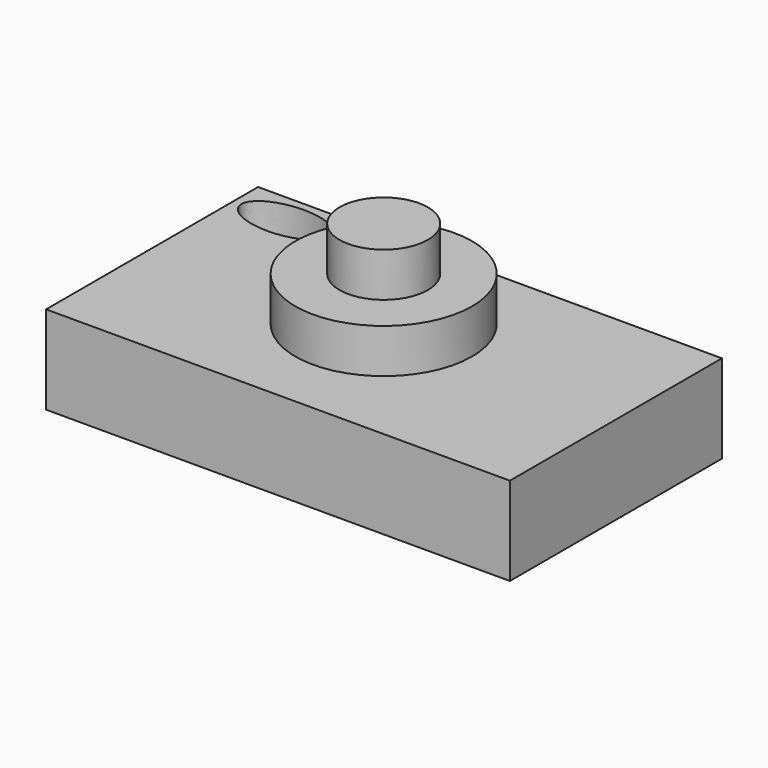
from build123d import *

# Parameters (mm, degrees)
F0_W     = 133.35
F0_H     = 76.2
F1_DEPTH = 25.4
F2_R     = 25.4
F3_DEPTH = 12.7
F4_R     = 12.7
F5_DEPTH = 12.7
F7_DEPTH = 25.401


with BuildPart() as f1:
    # F0 (on Top) → F1 (new body)
    with BuildSketch(Plane.XY):
        with Locations((-66.675, 38.1)):
            Rectangle(F0_W, F0_H)
    extrude(amount=F1_DEPTH)

    # F2 (on face) → F3 (join)
    with BuildSketch(Plane.XY.offset(25.4)):
        with Locations((-69.742762, 41.82275)):
            Circle(F2_R)
    extrude(amount=F3_DEPTH)

    # F4 (on face) → F5 (join)
    with BuildSketch(Plane.XY.offset(38.1)):
        with Locations((-69.742762, 41.82275)):
            Circle(F4_R)
    extrude(amount=F5_DEPTH)

    # F6 (on face) → F7 (cut, through all)
    with BuildSketch(Plane.XY.offset(25.4)):
        with BuildLine():
            add(Edge.make_bspline(
                [(-105.670391, 67.346543), (-105.670391, 78.697359), (-124.720391, 73.021951), (-143.770391, 67.346543), (-124.720391, 61.671135), (-105.670391, 55.995727), (-105.670391, 67.346543)],
                knots=[0, 0, 0, 2.094395, 2.094395, 4.18879, 4.18879, 6.283185, 6.283185, 6.283185], degree=2, weights=[1, 0.5, 1, 0.5, 1, 0.5, 1]))
        make_face()
    extrude(amount=-F7_DEPTH, mode=Mode.SUBTRACT)


solid = f1.part
